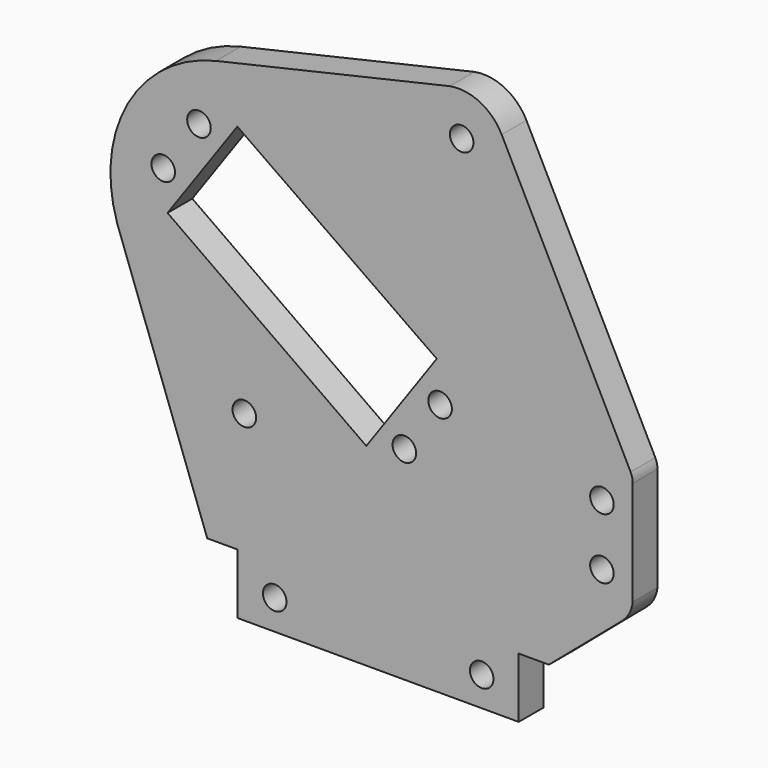
from build123d import *

# Parameters (mm, degrees)
F0_R     = 1.905
F1_DEPTH = 5


with BuildPart() as f1:
    # F0 (on Front) → F1 (new body)
    with BuildSketch(Plane.XZ):
        with BuildLine():
            Line((-19.638577, -89.450538), (-19.638577, -79.722829))
            Line((-19.638577, -79.722829), (-14.755342, -79.722829))
            Line((-14.755342, -79.722829), (-2.940716, -69.650203))
            ThreePointArc((-2.940716, -69.650203), (-1.762344, -68.177362), (-1.214478, -66.372462))
            Line((-1.214478, -66.372462), (-1.214478, -49.523853))
            ThreePointArc((-1.214478, -49.523853), (-1.301303, -48.742133), (-1.557545, -47.998518))
            Line((-1.557545, -47.998518), (-22.394331, -6.778323))
            ThreePointArc((-22.394331, -6.778323), (-25.894047, -3.30378), (-30.777479, -2.616351))
            Line((-30.777479, -2.616351), (-68.54441, -11.307366))
            ThreePointArc((-68.54441, -11.307366), (-82.783914, -21.945088), (-84.528677, -39.633512))
            Line((-84.528677, -39.633512), (-69.979429, -79.702094))
            Line((-69.979429, -79.702094), (-65.113842, -79.702094))
            Line((-65.113842, -79.702094), (-65.113842, -89.450538))
            Line((-65.113842, -89.450538), (-19.638577, -89.450538))
        make_face()
        with Locations((-59.080809, -84.597848)):
            Circle(F0_R, mode=Mode.SUBTRACT)
        with Locations((-63.986167, -59.999965)):
            Circle(F0_R, mode=Mode.SUBTRACT)
        with Locations((-25.618793, -84.67719)):
            Circle(F0_R, mode=Mode.SUBTRACT)
        with Locations((-38.124348, -56.629078)):
            Circle(F0_R, mode=Mode.SUBTRACT)
        with Locations((-32.347996, -48.456819)):
            Circle(F0_R, mode=Mode.SUBTRACT)
        with Locations((-6.192373, -63.382605)):
            Circle(F0_R, mode=Mode.SUBTRACT)
        with Locations((-6.189452, -53.549591)):
            Circle(F0_R, mode=Mode.SUBTRACT)
        with Locations((-77.09127, -29.339786)):
            Circle(F0_R, mode=Mode.SUBTRACT)
        Polygon((-44.271119, -58.196455), (-76.398229, -35.488227), (-65.114856, -19.524755), (-32.888938, -42.093192), align=None, mode=Mode.SUBTRACT)
        with Locations((-71.314917, -21.167528)):
            Circle(F0_R, mode=Mode.SUBTRACT)
        with Locations((-28.860504, -9.454119)):
            Circle(F0_R, mode=Mode.SUBTRACT)
    extrude(amount=-F1_DEPTH)


solid = f1.part
